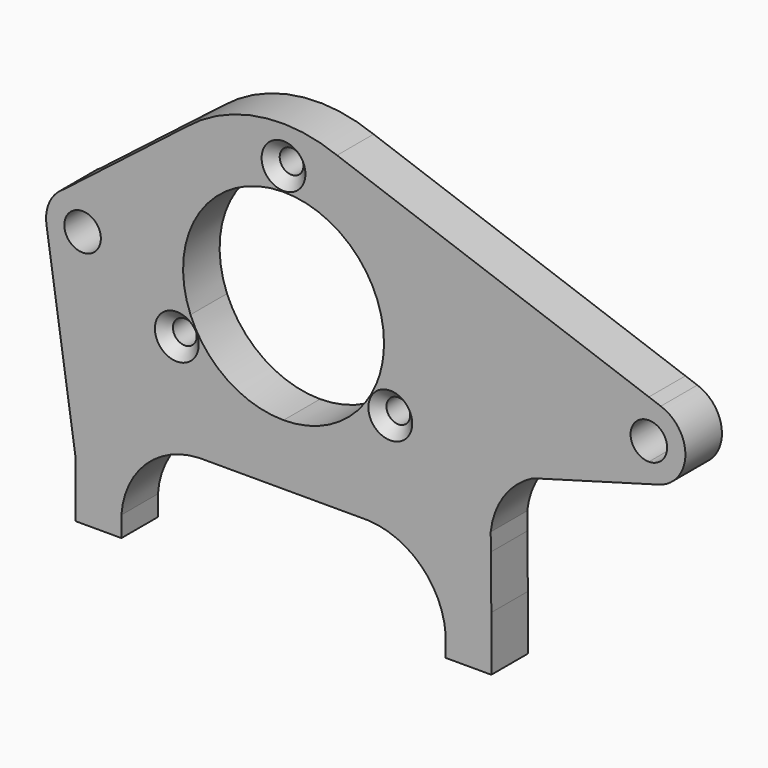
from build123d import *

# Parameters (mm, degrees)
F0_R           = 4.1275
F0_R_2         = 6.35
F1_DEPTH       = 15.875
F3_D           = 8.255
F3_CSINK_D     = 15.24
F3_CSINK_ANGLE = 90


with BuildPart() as f1:
    # F0 (on Front) → F1 (new body)
    with BuildSketch(Plane.XZ):
        with BuildLine():
            Line((-27.029276, -56.007), (0, -56.007))
            Line((0, -56.007), (27.029276, -56.007))
            ThreePointArc((27.029276, -56.007), (28.197928, -55.982797), (29.36658, -56.007))
            ThreePointArc((29.36658, -56.007), (47.874791, -63.97181), (56.35625, -82.249034))
            Line((56.35625, -82.249034), (56.35625, -89.3445))
            Line((56.35625, -89.3445), (72.23125, -89.3445))
            Line((72.23125, -89.3445), (72.23125, -70.2945))
            Line((72.23125, -70.2945), (72.073391, -51.823376))
            ThreePointArc((72.073391, -51.823376), (71.871442, -48.75548), (72.020927, -45.68458))
            ThreePointArc((72.020927, -45.68458), (76.627023, -33.253211), (86.611983, -24.532223))
            ThreePointArc((86.611983, -24.532223), (91.49573, -22.630497), (96.655561, -21.711968))
            Line((96.655561, -21.711968), (127, -13.191196))
            Line((127, -13.191196), (127, -6.35))
            ThreePointArc((127, -6.35), (120.65, 0), (127, 6.35))
            Line((127, 6.35), (127, 13.484294))
            Line((127, 13.484294), (18.594601, 52.185375))
            ThreePointArc((18.594601, 52.185375), (-8.60389, 55.18782), (-33.587092, 44.024833))
            Line((-33.587092, 44.024833), (-76.257501, 10.965124))
            ThreePointArc((-76.257501, 10.965124), (-81.301476, 5.491238), (-82.411728, -1.868957))
            Line((-82.411728, -1.868957), (-72.23125, -70.2945))
            Line((-72.23125, -70.2945), (-72.23125, -89.3445))
            Line((-72.23125, -89.3445), (-56.35625, -89.3445))
            Line((-56.35625, -89.3445), (-56.35625, -86.1695))
            ThreePointArc((-56.35625, -86.1695), (-56.424398, -84.209267), (-56.35625, -82.249034))
            ThreePointArc((-56.35625, -82.249034), (-47.874791, -63.97181), (-29.36658, -56.007))
            ThreePointArc((-29.36658, -56.007), (-28.197928, -55.982797), (-27.029276, -56.007))
        make_face()
        with Locations((-37.109015, -21.4249)):
            Circle(F0_R, mode=Mode.SUBTRACT)
        with Locations((37.109015, -21.4249)):
            Circle(F0_R, mode=Mode.SUBTRACT)
        with BuildLine():
            ThreePointArc((71.462556, -28.786209), (71.668645, -28.726833), (71.875518, -28.670248))
            Line((71.875518, -28.670248), (71.462556, -28.786209))
        make_face(mode=Mode.SUBTRACT)
        with Locations((-69.85, 0)):
            Circle(F0_R_2, mode=Mode.SUBTRACT)
        with BuildLine():
            ThreePointArc((0, -34.925), (-19.48747, -28.982653), (-32.343511, -13.177743))
            ThreePointArc((-32.343511, -13.177743), (-6.714108, 34.273552), (34.925, 0))
            ThreePointArc((34.925, 0), (34.273552, -6.714108), (32.343511, -13.177743))
            ThreePointArc((32.343511, -13.177743), (19.48747, -28.982653), (0, -34.925))
        make_face(mode=Mode.SUBTRACT)
        with Locations((0, 42.8498)):
            Circle(F0_R, mode=Mode.SUBTRACT)
        with BuildLine():
            Line((-29.36658, -56.007), (-27.029276, -56.007))
            ThreePointArc((-27.029276, -56.007), (-28.197928, -55.982797), (-29.36658, -56.007))
        make_face()
        with BuildLine():
            ThreePointArc((29.36658, -56.007), (28.197928, -55.982797), (27.029276, -56.007))
            Line((27.029276, -56.007), (29.36658, -56.007))
        make_face()
        with BuildLine():
            Line((-56.35625, -86.1695), (-56.35625, -82.249034))
            ThreePointArc((-56.35625, -82.249034), (-56.424398, -84.209267), (-56.35625, -86.1695))
        make_face()
        with BuildLine():
            ThreePointArc((72.020927, -45.68458), (71.871442, -48.75548), (72.073391, -51.823376))
            Line((72.073391, -51.823376), (72.020927, -45.68458))
        make_face()
        with BuildLine():
            ThreePointArc((96.655561, -21.711968), (91.49573, -22.630497), (86.611983, -24.532223))
            Line((86.611983, -24.532223), (96.655561, -21.711968))
        make_face()
        with BuildLine():
            Line((127, -6.35), (127, -13.191196))
            Line((127, -13.191196), (130.43339, -12.227094))
            ThreePointArc((130.43339, -12.227094), (139.694559, -0.371702), (131.142923, 12.005257))
            Line((131.142923, 12.005257), (127, 13.484294))
            Line((127, 13.484294), (127, 6.35))
            ThreePointArc((127, 6.35), (131.490128, 4.490128), (133.35, 0))
            ThreePointArc((133.35, 0), (131.490128, -4.490128), (127, -6.35))
        make_face()
    extrude(amount=F1_DEPTH)

    # F3 (through all)
    with Locations(Plane.XZ.offset(15.875)):
        with Locations((-37.109015, -21.4249), (0, 42.8498), (37.109015, -21.4249)):
            CounterSinkHole(F3_D / 2, F3_CSINK_D / 2, counter_sink_angle=F3_CSINK_ANGLE)


solid = f1.part
